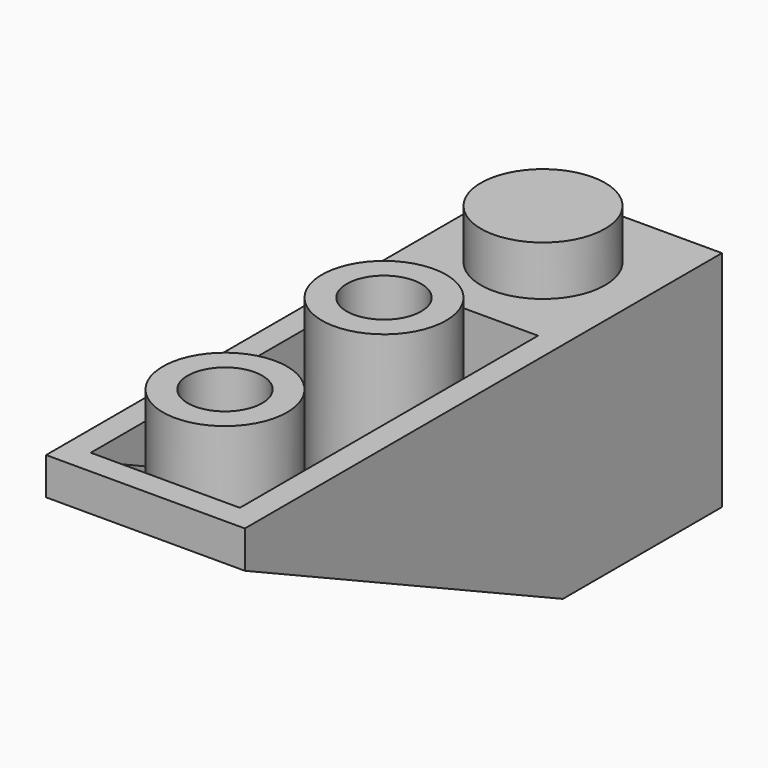
from build123d import *

# Parameters (mm, degrees)
F1_DEPTH  = 4
F3_DEPTH  = 3
F2_W      = 5
F2_H      = 8
F4_DEPTH  = 2.5
F6_R      = 2.5
F7_DEPTH  = 2
F8_R      = 1.25
F9_DEPTH  = 10
F10_R     = 2.5
F10_R_2   = 1.5
F12_R     = 2.5
F13_DEPTH = 2


with BuildPart() as f1:
    # F0 (on Right) → F1 (new body)
    with BuildSketch(Plane.YZ):
        Polygon((-8, 0), (0, 0), (0, 9), (-24, 9), (-24, 7.5), align=None)
    extrude(amount=F1_DEPTH)

    # F2 (on face) → F3 (cut)
    with BuildSketch(Plane(origin=(0, 0, 0), x_dir=(0, -1, 0), z_dir=(-1, 0, 0))):
        Polygon((23, 9), (8, 9), (8, 1.6566184732), (23, 8.6878684732), align=None)
    extrude(amount=-F3_DEPTH, mode=Mode.SUBTRACT)

    # F2 (on face) → F4 (cut)
    with BuildSketch(Plane(origin=(0, 0, 0), x_dir=(0, -1, 0), z_dir=(-1, 0, 0))):
        with Locations((4, 4)):
            Rectangle(F2_W, F2_H)
    extrude(amount=-F4_DEPTH, mode=Mode.SUBTRACT)

    # F5: F1 across face


with BuildPart() as f1_1:
    add(f1.part)
    add(f1.part.mirror(Plane(origin=(0, -9.4545581434, 4.8825876623), x_dir=(0, 1, 0), z_dir=(-1, 0, 0))))

    # F6 (on face) → F7 (join)
    with BuildSketch(Plane.XY.offset(9)):
        with Locations((0, -4)):
            Circle(F6_R)
    extrude(amount=F7_DEPTH)

    # F8 (on face) → F9 (cut)
    with BuildSketch(Plane(origin=(0, 0, 0), x_dir=(1, 0, 0), z_dir=(0, 0, -1))):
        with Locations((0, 4)):
            Circle(F8_R)
    extrude(amount=-F9_DEPTH, mode=Mode.SUBTRACT)

    # F10 (on face) → F11 (join, up to the next surface of F1)
    with BuildSketch(Plane.XY.offset(11)):
        with Locations((0, -12)):
            Circle(F10_R)
        with Locations((0, -12)):
            Circle(F10_R_2, mode=Mode.SUBTRACT)
        with Locations((0, -20)):
            Circle(F10_R)
        with Locations((0, -20)):
            Circle(F10_R_2, mode=Mode.SUBTRACT)
    extrude(until=Until.NEXT, dir=(0, 0, -1))

    # F12 (on face) → F13 (cut)
    with BuildSketch(Plane(origin=(0, 0, 0), x_dir=(1, 0, 0), z_dir=(0, 0, -1))):
        with Locations((0, 12)):
            Circle(F12_R)
    extrude(amount=-F13_DEPTH, mode=Mode.SUBTRACT)


solid = f1_1.part
